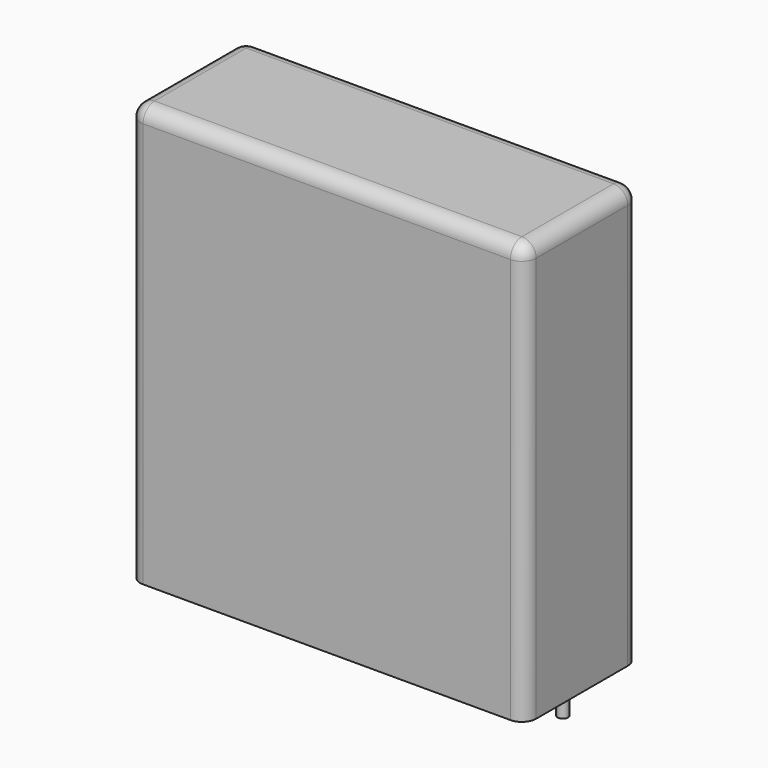
from build123d import *

# Parameters (mm, degrees)
SKETCH_W     = 41.5
SKETCH_H     = 15
PAD_DEPTH    = 44
FILLET_R     = 1.5
SKETCH001_R  = 0.55
PAD001_DEPTH = 3.2


with BuildPart() as fillet_body:
    # Sketch → Pad (new body)
    with BuildSketch(Plane.XY.offset(0.1)):
        with Locations((18.75, 0)):
            Rectangle(SKETCH_W, SKETCH_H)
    extrude(amount=PAD_DEPTH)

    # Fillet
    fillet_edges = [fillet_body.edges().sort_by_distance(p)[0] for p in [
        (-2, 0, 44.1),
        (-2, -7.5, 22.1),
        (18.75, -7.5, 44.1),
        (39.5, -7.5, 22.1),
        (39.5, 0, 44.1),
        (39.5, 7.5, 22.1),
        (18.75, 7.5, 44.1),
        (-2, 7.5, 22.1),
    ]]
    fillet(fillet_edges, radius=FILLET_R)


with BuildPart() as pad001:
    # Sketch001 → Pad001 (new body)
    with BuildSketch(Plane.XY.offset(0.5)):
        Circle(SKETCH001_R)
        with Locations((37.5, 0)):
            Circle(SKETCH001_R)
    extrude(amount=-PAD001_DEPTH)


solid = Compound([fillet_body.part, pad001.part])
